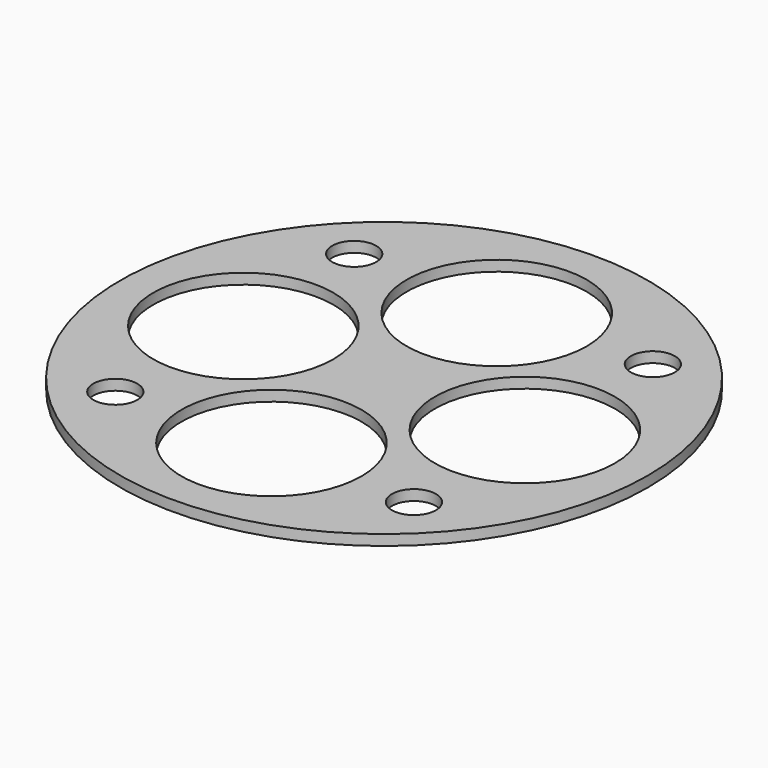
from build123d import *

# Parameters (mm, degrees)
F0_R     = 38.1
F0_R_2   = 3.175
F0_R_3   = 13
F1_DEPTH = 1.51892


with BuildPart() as f1:
    # F0 (on Top) → F1 (new body)
    with BuildSketch(Plane.XY):
        Circle(F0_R)
        with Locations((-21.552615, -21.552615)):
            Circle(F0_R_2, mode=Mode.SUBTRACT)
        with Locations((0, -20.32)):
            Circle(F0_R_3, mode=Mode.SUBTRACT)
        with Locations((21.552615, -21.552615)):
            Circle(F0_R_2, mode=Mode.SUBTRACT)
        with Locations((-20.32, 0)):
            Circle(F0_R_3, mode=Mode.SUBTRACT)
        with Locations((-21.552615, 21.552615)):
            Circle(F0_R_2, mode=Mode.SUBTRACT)
        with Locations((20.32, 0)):
            Circle(F0_R_3, mode=Mode.SUBTRACT)
        with Locations((0, 20.32)):
            Circle(F0_R_3, mode=Mode.SUBTRACT)
        with Locations((21.552615, 21.552615)):
            Circle(F0_R_2, mode=Mode.SUBTRACT)
    extrude(amount=F1_DEPTH)


solid = f1.part
